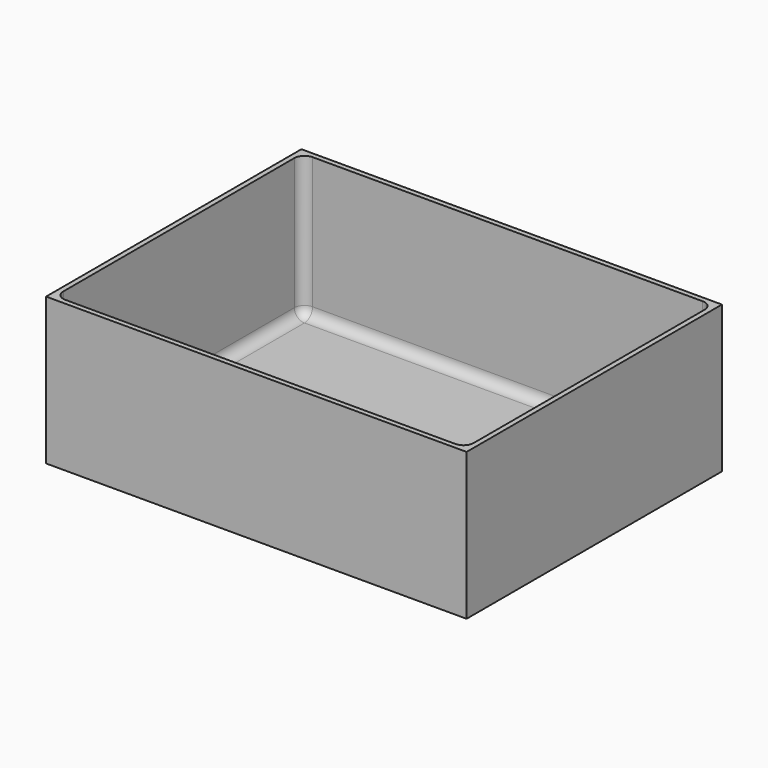
from build123d import *

# Parameters (mm, degrees)
F0_W     = 527.05
F0_H     = 400.05
F0_W_2   = 514.35
F0_H_2   = 387.35
F1_DEPTH = 177.8
F2_W     = 527.05
F2_H     = 400.05
F3_DEPTH = 6.35
F4_R     = 12.7


with BuildPart() as f1:
    # F0 (on Top) → F1 (new body)
    with BuildSketch(Plane.XY):
        Rectangle(F0_W, F0_H)
        Rectangle(F0_W_2, F0_H_2, mode=Mode.SUBTRACT)
    extrude(amount=F1_DEPTH)

    # F2 (on face) → F3 (join)
    with BuildSketch(Plane(origin=(0, 0, 0), x_dir=(1, 0, 0), z_dir=(0, 0, -1))):
        Rectangle(F2_W, F2_H)
    extrude(amount=F3_DEPTH)

    # F4
    f4_edges = [f1.edges().sort_by_distance(p)[0] for p in [
        (0, 193.675, 0),
        (-257.175, 0, 0),
        (0, -193.675, 0),
        (257.175, 0, 0),
        (-257.175, 193.675, 88.9),
        (-257.175, -193.675, 88.9),
        (257.175, -193.675, 88.9),
        (257.175, 193.675, 88.9),
    ]]
    fillet(f4_edges, radius=F4_R)


solid = f1.part
